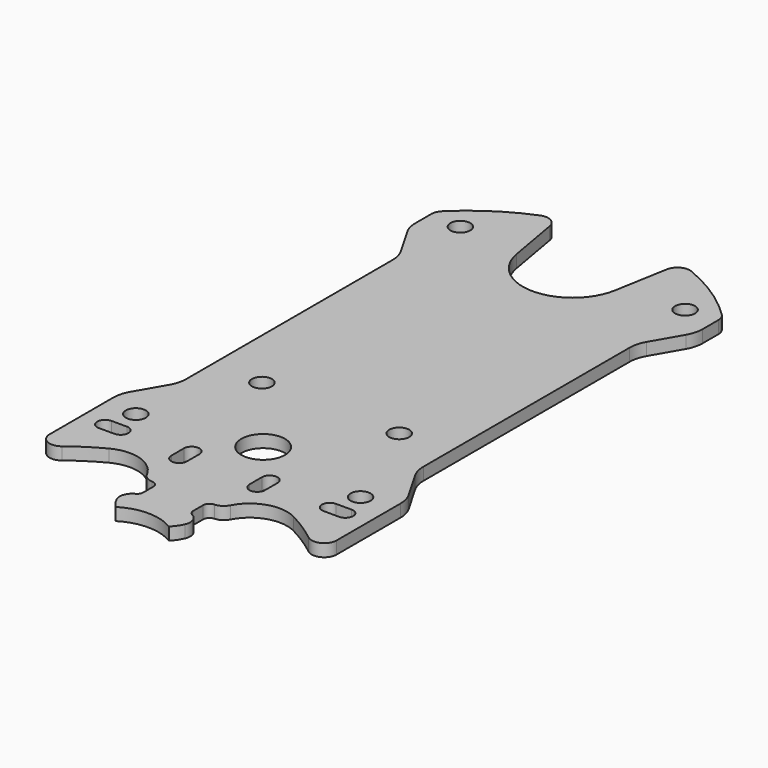
from build123d import *

# Parameters (mm, degrees)
F0_R      = 1.6
F1_DEPTH  = 2
F2_W      = 6
F2_H      = 4
F2_R      = 1.6
F2_R_2    = 3.5
F2_R_3    = 8
F3_DEPTH  = 2.001
F5_DEPTH  = 2.001
F6_R      = 5
F7_R      = 1
F8_R      = 2
F10_DEPTH = 2.0010001


with BuildPart() as f1:
    # F0 (on Top) → F1 (new body)
    with BuildSketch(Plane.XY):
        with BuildLine():
            ThreePointArc((-22.4, 38.8525709713), (-22.8439088915, 38.1988819549), (-23, 37.4242852856))
            Line((-23, 37.4242852856), (-23, -39.0255160858))
            ThreePointArc((-23, -39.0255160858), (-21.8744746322, -40.8242084212), (-19.7647058824, -40.5984269042))
            ThreePointArc((-19.7647058824, -40.5984269042), (-17.3419245059, -38.8715499716), (-14.7692307692, -37.3771536131))
            ThreePointArc((-14.7692307692, -37.3771536131), (-8.88675287, -37.5707723251), (-6, -42.6998748107))
            Line((-6, -42.6998748107), (-6, -45))
            ThreePointArc((-6, -45), (0, -51), (6, -45))
            Line((6, -45), (6, -42.6998748107))
            ThreePointArc((6, -42.6998748107), (8.88675287, -37.5707723251), (14.7692307692, -37.3771536131))
            ThreePointArc((14.7692307692, -37.3771536131), (17.3419245059, -38.8715499716), (19.7647058824, -40.5984269042))
            ThreePointArc((19.7647058824, -40.5984269042), (21.8744746322, -40.8242084212), (23, -39.0255160858))
            Line((23, -39.0255160858), (23, 37.4242852856))
            ThreePointArc((23, 37.4242852856), (22.8439088915, 38.1988819549), (22.4, 38.8525709713))
            ThreePointArc((22.4, 38.8525709713), (17.5812540395, 42.7376047244), (12.1046910387, 45.6222290663))
            ThreePointArc((12.1046910387, 45.6222290663), (10.3819905013, 45.5219936492), (9.3785323428, 44.118136105))
            Line((9.3785323428, 44.118136105), (7.8784620241, 35.6108145787))
            ThreePointArc((7.8784620241, 35.6108145787), (0, 29), (-7.8784620241, 35.6108145787))
            Line((-7.8784620241, 35.6108145787), (-9.3785323428, 44.118136105))
            ThreePointArc((-9.3785323428, 44.118136105), (-10.3819905013, 45.5219936492), (-12.1046910387, 45.6222290663))
            ThreePointArc((-12.1046910387, 45.6222290663), (-17.5812540395, 42.7376047244), (-22.4, 38.8525709713))
        make_face()
        with Locations((-18, -28)):
            Circle(F0_R, mode=Mode.SUBTRACT)
        with Locations((18, -28)):
            Circle(F0_R, mode=Mode.SUBTRACT)
        with Locations((-18, 37)):
            Circle(F0_R, mode=Mode.SUBTRACT)
        with Locations((18, 37)):
            Circle(F0_R, mode=Mode.SUBTRACT)
    extrude(amount=F1_DEPTH)

    # F2 (on face) → F3 (cut, through all)
    with BuildSketch(Plane.XY.offset(2)):
        with Locations((-7, -43)):
            Rectangle(F2_W, F2_H)
        with Locations((7, -43)):
            Rectangle(F2_W, F2_H)
        with BuildLine():
            Line((-5, -34), (-5, -31.5))
            ThreePointArc((-5, -31.5), (-6.25, -30.25), (-7.5, -31.5))
            Line((-7.5, -31.5), (-7.5, -34))
            ThreePointArc((-7.5, -34), (-6.25, -35.25), (-5, -34))
        make_face()
        with BuildLine():
            ThreePointArc((7.5, -31.5), (6.25, -30.25), (5, -31.5))
            Line((5, -31.5), (5, -34))
            ThreePointArc((5, -34), (6.25, -35.25), (7.5, -34))
            Line((7.5, -34), (7.5, -31.5))
        make_face()
        with Locations((-11, -11.5)):
            Circle(F2_R)
        with Locations((11, -11.5)):
            Circle(F2_R)
        with Locations((0, -25)):
            Circle(F2_R_2)
        with Locations((0, -56)):
            Circle(F2_R_3)
    extrude(amount=-F3_DEPTH, mode=Mode.SUBTRACT)

    # F4 (on face) → F5 (cut, through all)
    with BuildSketch(Plane.XY.offset(2)):
        with BuildLine():
            Line((-19, -16.6602540378), (-19, 24.6602540378))
            ThreePointArc((-19, 24.6602540378), (-19.1703708686, 25.9543492634), (-19.6698729811, 27.1602540378))
            Line((-19.6698729811, 27.1602540378), (-23, 32.9282032303))
            Line((-23, 32.9282032303), (-23, -24.9282032303))
            Line((-23, -24.9282032303), (-19.6698729811, -19.1602540378))
            ThreePointArc((-19.6698729811, -19.1602540378), (-19.1703708686, -17.9543492634), (-19, -16.6602540378))
        make_face()
        with BuildLine():
            ThreePointArc((19.6698729811, 27.1602540378), (19.1703708686, 25.9543492634), (19, 24.6602540378))
            Line((19, 24.6602540378), (19, -16.6602540378))
            ThreePointArc((19, -16.6602540378), (19.1703708686, -17.9543492634), (19.6698729811, -19.1602540378))
            Line((19.6698729811, -19.1602540378), (23, -24.9282032303))
            Line((23, -24.9282032303), (23, 32.9282032303))
            Line((23, 32.9282032303), (19.6698729811, 27.1602540378))
        make_face()
    extrude(amount=-F5_DEPTH, mode=Mode.SUBTRACT)

    # F6
    f6_edges = [f1.edges().sort_by_distance(p)[0] for p in [
        (-23, 32.928203, 1),
        (23, 32.928203, 1),
        (23, -24.928203, 1),
        (-23, -24.928203, 1),
    ]]
    fillet(f6_edges, radius=F6_R)

    # F7
    f7_edges = [f1.edges().sort_by_distance(p)[0] for p in [
        (-4, -41, 1),
        (-4, -45, 1),
        (4, -41, 1),
        (4, -45, 1),
    ]]
    fillet(f7_edges, radius=F7_R)

    # F8
    f8_edges = [f1.edges().sort_by_distance(p)[0] for p in [
        (-6.245834, -41, 1),
        (6.245834, -41, 1),
        (-6, -45, 1),
        (6, -45, 1),
    ]]
    fillet(f8_edges, radius=F8_R)

    # F9 (on face) → F10 (cut, through all)
    with BuildSketch(Plane.XY.offset(2)):
        with BuildLine():
            ThreePointArc((-16.75, -33.85), (-15.5, -32.6), (-16.75, -31.35))
            Line((-16.75, -31.35), (-19.25, -31.35))
            ThreePointArc((-19.25, -31.35), (-20.5, -32.6), (-19.25, -33.85))
            Line((-19.25, -33.85), (-16.75, -33.85))
        make_face()
        with BuildLine():
            Line((19.25, -31.35), (16.75, -31.35))
            ThreePointArc((16.75, -31.35), (15.5, -32.6), (16.75, -33.85))
            Line((16.75, -33.85), (19.25, -33.85))
            ThreePointArc((19.25, -33.85), (20.5, -32.6), (19.25, -31.35))
        make_face()
    extrude(amount=-F10_DEPTH, mode=Mode.SUBTRACT)


solid = f1.part
